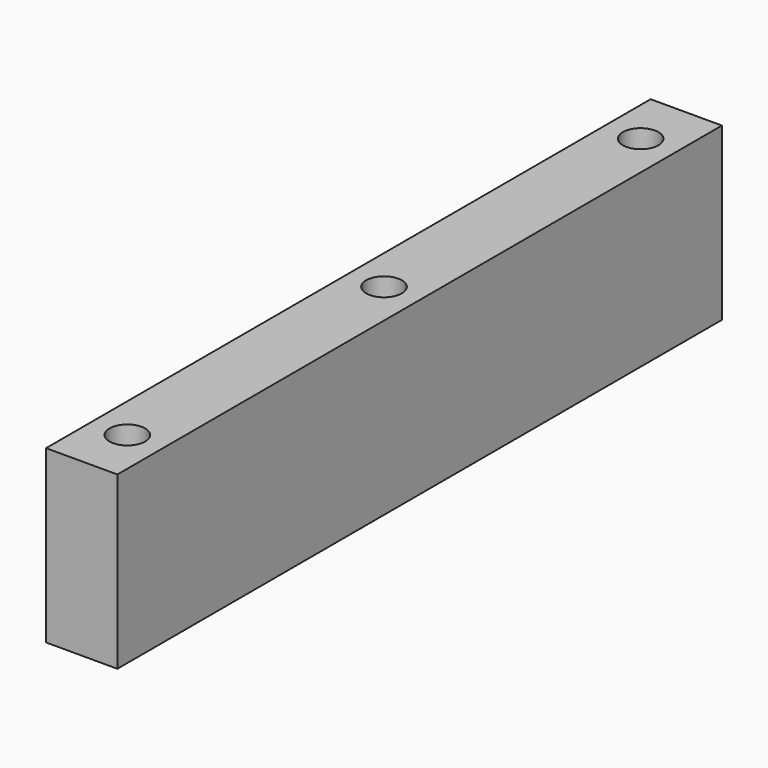
from build123d import *

# Parameters (mm, degrees)
F0_W     = 5
F0_H     = 53
F0_R     = 1.25
F1_DEPTH = 12


with BuildPart() as f1:
    # F0 (on Top) → F1 (new body)
    with BuildSketch(Plane.XY):
        with Locations((-3.84593, 0)):
            Rectangle(F0_W, F0_H)
        with Locations((-3.84593, -22.5)):
            Circle(F0_R, mode=Mode.SUBTRACT)
        with Locations((-3.84593, 0)):
            Circle(F0_R, mode=Mode.SUBTRACT)
        with Locations((-3.84593, 22.5)):
            Circle(F0_R, mode=Mode.SUBTRACT)
    extrude(amount=F1_DEPTH)


solid = f1.part
